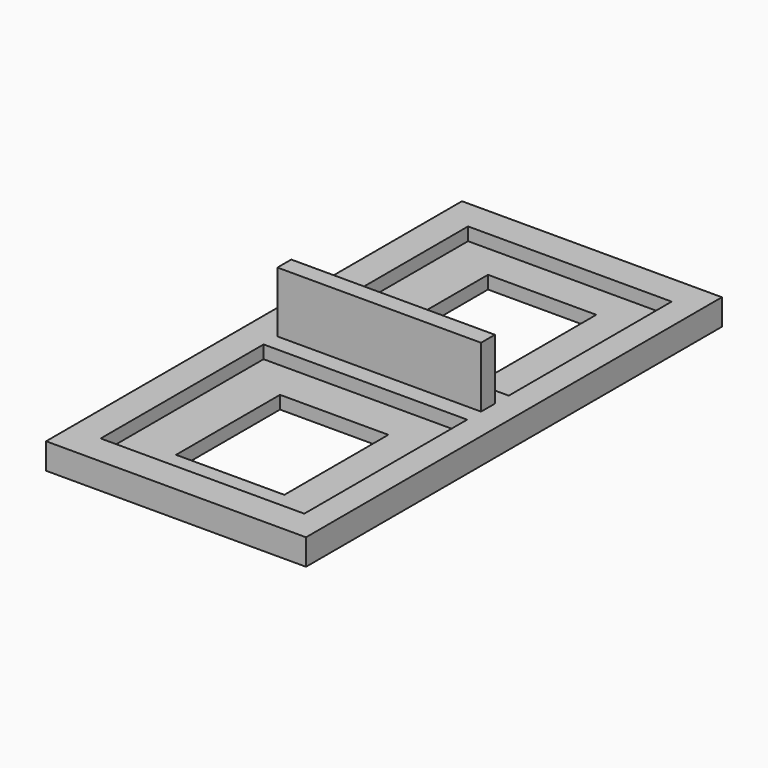
from build123d import *

# Parameters (mm, degrees)
F0_W     = 60
F0_H     = 60
F1_DEPTH = 6
F2_W     = 47
F2_H     = 47
F3_DEPTH = 3
F4_W     = 47
F4_H     = 4
F5_DEPTH = 20
F6_W     = 25
F6_H     = 30
F7_DEPTH = 25


with BuildPart() as f1:
    # F0 (on Top) → F1 (new body)
    with BuildSketch(Plane.XY):
        with Locations((30, 90)):
            Rectangle(F0_W, F0_H)
        with Locations((30, 30)):
            Rectangle(F0_W, F0_H)
    extrude(amount=F1_DEPTH)

    # F2 (on face) → F3 (cut)
    with BuildSketch(Plane.XY.offset(6)):
        with Locations((30.5, 89.5)):
            Rectangle(F2_W, F2_H)
        with Locations((30.5, 30.5)):
            Rectangle(F2_W, F2_H)
    extrude(amount=-F3_DEPTH, mode=Mode.SUBTRACT)

    # F4 (on Top) → F5 (join)
    with BuildSketch(Plane.XY):
        with Locations((30.5, 60)):
            Rectangle(F4_W, F4_H)
    extrude(amount=F5_DEPTH)

    # F6 (on Top) → F7 (cut)
    with BuildSketch(Plane.XY):
        with Locations((30.5, 30)):
            Rectangle(F6_W, F6_H)
        with Locations((30.5, 90)):
            Rectangle(F6_W, F6_H)
    extrude(amount=F7_DEPTH, mode=Mode.SUBTRACT)


solid = f1.part
